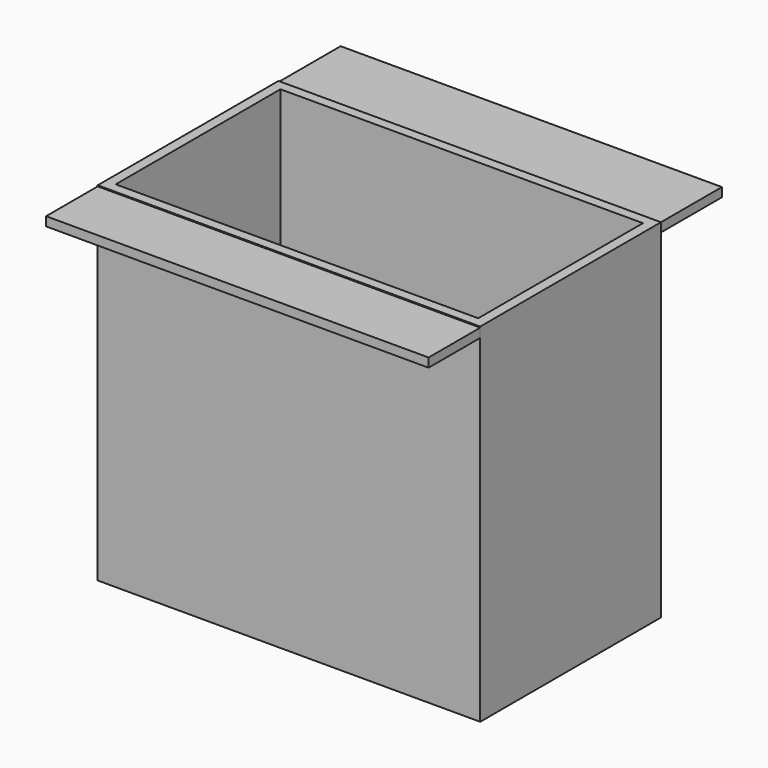
from build123d import *

# Parameters (mm, degrees)
F0_W          = 97.1658453345
F0_H          = 57.3885776103
F1_DEPTH      = 44.196
F1_DEPTH_BACK = 44.196
F4_T          = -2.54
F5_START      = 41.656
F2_W          = 96.8622006476
F2_H          = 19.7368133813
F3_W          = 97.1658416092
F3_H          = 16.3967330009
F5_DEPTH      = 2.286


with BuildPart() as f1:
    # F0 (on Top) → F1 (new body, two sides)
    with BuildSketch(Plane.XY) as f1_sk:
        Rectangle(F0_W, F0_H)
    extrude(amount=F1_DEPTH)
    extrude(f1_sk.sketch, amount=-F1_DEPTH_BACK)

    # F4
    f4_openings = [f1.faces().sort_by_distance(p)[0] for p in [
        (0, 0, 44.196),
    ]]
    offset(amount=F4_T, openings=f4_openings)

    # F2 (on Top) + F3 (on Top) → F5 (join)
    with BuildSketch(Plane.XY.offset(F5_START)):
        with Locations((-0.1518223435, 38.5626954958)):
            Rectangle(F2_W, F2_H)
    with BuildSketch(Plane.XY.offset(F5_START)):
        with Locations((-1.8626e-06, -36.8926553056)):
            Rectangle(F3_W, F3_H)
    extrude(amount=F5_DEPTH)


solid = f1.part
